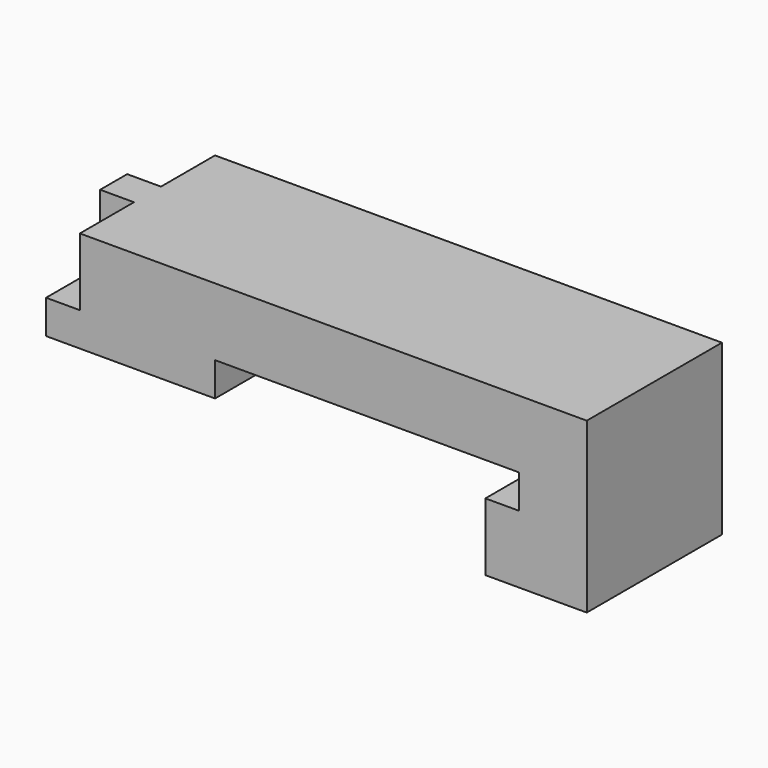
from build123d import *

# Parameters (mm, degrees)
F1_DEPTH = 25
F2_W     = 10
F2_H     = 10
F3_DEPTH = 20


with BuildPart() as f1:
    # F0 (on Front) → F1 (new body, symmetric)
    with BuildSketch(Plane.XZ):
        Polygon((0, 20), (0, 0), (30, 0), (30, 50), (-120, 50), (-120, 30), (-130, 30), (-130, 20), (-80, 20), (-80, 30), (10, 30), (10, 20), align=None)
    extrude(amount=F1_DEPTH, both=True)

    # F2 (on face) → F3 (join, through all)
    with BuildSketch(Plane.XY.offset(30)):
        with Locations((-125, 0)):
            Rectangle(F2_W, F2_H)
    extrude(amount=F3_DEPTH)


solid = f1.part
